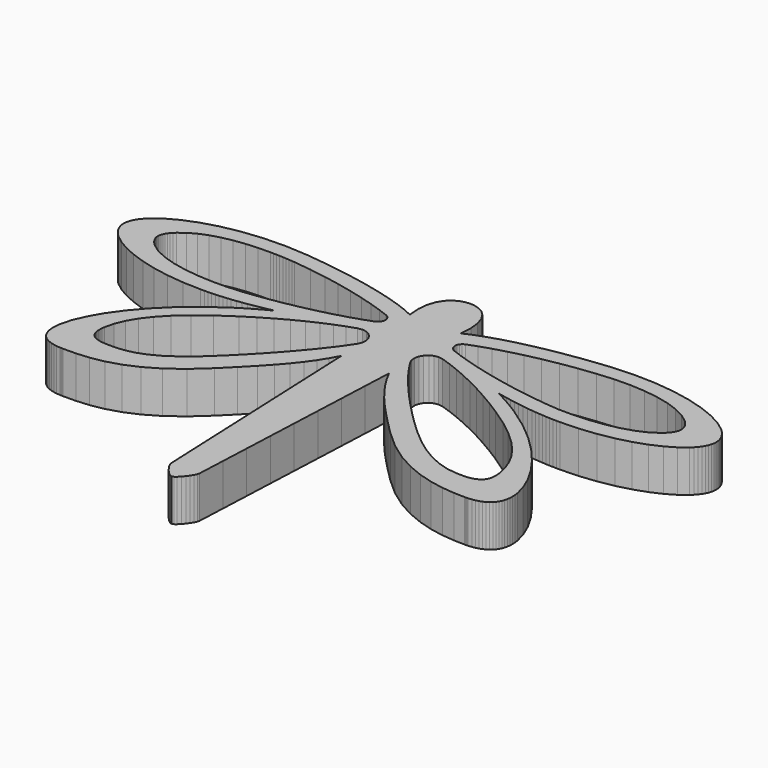
from build123d import *

# Parameters (mm, degrees)
F1_DEPTH = 12
F2_SCALE = 0.4


with BuildPart() as f1:
    # F0 (on Top) → F1 (new body)
    with BuildSketch(Plane.XY):
        Polygon((-36.167496, 57.580935), (-35.154684, 57.574074), (-29.947674, 57.758049), (-25.071256, 58.280875), (-20.561392, 59.098903), (-16.454049, 60.168484), (-12.78519, 61.445968), (-9.590781, 62.887706), (-6.906785, 64.45005), (-4.769168, 66.08935), (-4.051872, 66.780061), (-3.425904, 67.481425), (-2.892593, 68.190983), (-2.453268, 68.906277), (-2.109257, 69.624848), (-1.86189, 70.344239), (-1.712495, 71.061992), (-1.662402, 71.775647), (-1.711336, 72.481869), (-1.857224, 73.191524), (-2.098693, 73.902197), (-2.43437, 74.611475), (-2.86288, 75.316944), (-3.382852, 76.016189), (-3.992912, 76.706798), (-4.691687, 77.386356), (-7.251789, 79.305259), (-10.583291, 81.110578), (-14.628106, 82.730183), (-19.328143, 84.091946), (-24.625317, 85.123739), (-30.461537, 85.753432), (-36.778718, 85.908898), (-43.518769, 85.518008), (-50.297735, 84.724774), (-56.444862, 83.781502), (-61.948096, 82.729614), (-66.795383, 81.610528), (-70.974669, 80.465665), (-74.473898, 79.336444), (-77.281017, 78.264284), (-79.383971, 77.290606), (-79.193794, 80.736457), (-79.504338, 83.530015), (-80.223085, 85.730719), (-81.257519, 87.398007), (-82.515122, 88.591319), (-83.903376, 89.370094), (-85.329765, 89.79377), (-86.701772, 89.921787), (-88.088311, 89.787315), (-89.527849, 89.347978), (-90.926484, 88.549896), (-92.190314, 87.339189), (-93.225438, 85.661976), (-93.937954, 83.464376), (-94.233961, 80.692511), (-94.019558, 77.292498), (-96.123056, 78.266175), (-98.930453, 79.338335), (-102.429785, 80.467556), (-106.609084, 81.612419), (-111.456386, 82.731505), (-116.959724, 83.783394), (-123.107132, 84.726666), (-129.886645, 85.519901), (-136.6229, 85.91079), (-142.938298, 85.755324), (-148.774287, 85.12563), (-154.072313, 84.093838), (-158.773824, 82.732075), (-162.820266, 81.11247), (-166.153086, 79.307152), (-168.713731, 77.388248), (-169.41243, 76.708686), (-170.02228, 76.01805), (-170.541952, 75.318734), (-170.970117, 74.613128), (-171.305447, 73.903625), (-171.546614, 73.192616), (-171.692288, 72.482493), (-171.741142, 71.775647), (-171.691048, 71.061996), (-171.541654, 70.344269), (-171.294287, 69.624949), (-170.950276, 68.906514), (-170.51095, 68.191445), (-169.977638, 67.482223), (-169.351668, 66.781328), (-168.63437, 66.091239), (-166.496209, 64.451939), (-163.811959, 62.889595), (-160.617516, 61.447857), (-156.948779, 60.170372), (-152.841647, 59.100792), (-148.332018, 58.282764), (-143.455789, 57.759938), (-138.248859, 57.575963), (-137.23596, 57.582746), (-136.212874, 57.603305), (-135.179867, 57.637948), (-134.137205, 57.686986), (-133.085153, 57.750729), (-132.023977, 57.829487), (-130.953943, 57.923569), (-129.875316, 58.033286), (-128.446042, 58.200316), (-127.028683, 58.388739), (-125.623813, 58.59727), (-124.23201, 58.824625), (-122.853848, 59.06952), (-121.489904, 59.330669), (-120.140754, 59.606788), (-118.806973, 59.896594), (-119.839791, 59.361052), (-120.874049, 58.810097), (-121.908883, 58.243374), (-122.943428, 57.660529), (-123.976823, 57.061208), (-125.008202, 56.445057), (-126.036703, 55.81172), (-127.061461, 55.160845), (-132.578626, 51.272999), (-137.425398, 47.219968), (-141.601067, 43.094521), (-145.104925, 38.989426), (-147.936264, 34.997452), (-150.094375, 31.211367), (-151.578548, 27.723938), (-152.388076, 24.627936), (-152.512612, 23.660986), (-152.560546, 22.740564), (-152.532343, 21.869439), (-152.428469, 21.050378), (-152.249388, 20.28615), (-151.995566, 19.579523), (-151.667467, 18.933264), (-151.265557, 18.350143), (-150.782327, 17.82281), (-150.218775, 17.35412), (-149.577492, 16.945134), (-148.861068, 16.596915), (-148.072096, 16.310527), (-147.213165, 16.087033), (-146.286866, 15.927495), (-145.295792, 15.832976), (-145.177624, 15.827116), (-145.058413, 15.822197), (-144.938181, 15.81808), (-144.816954, 15.814624), (-144.694755, 15.811691), (-144.571608, 15.809141), (-144.447536, 15.806834), (-144.322565, 15.804631), (-140.720583, 15.843399), (-137.022452, 16.154715), (-133.212658, 16.844), (-129.275692, 18.016674), (-125.196042, 19.778158), (-120.958196, 22.233871), (-116.546643, 25.489236), (-111.945872, 29.649672), (-108.3023, 33.289337), (-105.168144, 36.515352), (-102.479424, 39.415255), (-100.172163, 42.076586), (-98.182382, 44.586883), (-96.446104, 47.033685), (-94.899349, 49.504532), (-93.478139, 52.086962), (-93.135503, 44.023245), (-92.792868, 35.959527), (-92.450232, 27.89581), (-92.107596, 19.832092), (-91.764961, 11.768374), (-91.422325, 3.704657), (-91.079689, -4.359061), (-90.737054, -12.422778), (-90.61087, -12.946862), (-90.267704, -13.654844), (-89.760629, -14.468506), (-89.142723, -15.309629), (-88.467062, -16.099995), (-87.786719, -16.761383), (-87.154773, -17.215577), (-86.624298, -17.384357), (-86.143725, -17.215578), (-85.54928, -16.761385), (-84.895808, -16.099998), (-84.238159, -15.309635), (-83.631178, -14.468513), (-83.129714, -13.65485), (-82.788615, -12.946866), (-82.662726, -12.422778), (-82.308736, -4.358061), (-81.954746, 3.706657), (-81.600756, 11.771374), (-81.246766, 19.836092), (-80.892776, 27.900809), (-80.538786, 35.965527), (-80.184796, 44.030244), (-79.830805, 52.094962), (-78.413499, 49.512269), (-76.877034, 47.040728), (-75.155303, 44.592945), (-73.182199, 42.081524), (-70.891615, 39.41907), (-68.217443, 36.518187), (-65.093577, 33.29148), (-61.453908, 29.651553), (-56.793976, 25.497939), (-52.238748, 22.25914), (-47.823424, 19.82389), (-43.583198, 18.080921), (-39.553267, 16.918966), (-35.768828, 16.226758), (-32.265077, 15.893029), (-29.077212, 15.806512), (-28.951678, 15.806878), (-28.827319, 15.808019), (-28.704068, 15.810001), (-28.581858, 15.812891), (-28.460622, 15.816756), (-28.340294, 15.821661), (-28.220808, 15.827673), (-28.102096, 15.834858), (-27.11094, 15.928751), (-26.184427, 16.08782), (-25.325193, 16.310978), (-24.535872, 16.597142), (-23.8191, 16.945224), (-23.177514, 17.354141), (-22.613747, 17.822807), (-22.130436, 18.350136), (-21.729147, 18.933254), (-21.401492, 19.579486), (-21.147936, 20.286043), (-20.968943, 21.050135), (-20.864979, 21.868971), (-20.836509, 22.73976), (-20.883999, 23.659713), (-21.007912, 24.62604), (-21.817525, 27.721503), (-23.301937, 31.208678), (-25.46042, 34.994732), (-28.292241, 38.986828), (-31.796671, 43.092133), (-35.972978, 47.217812), (-40.820433, 51.27103), (-46.338305, 55.158952), (-47.363609, 55.809906), (-48.392391, 56.44343), (-49.423874, 57.059814), (-50.457284, 57.659345), (-51.491846, 58.242312), (-52.526784, 58.809001), (-53.561324, 59.359702), (-54.594689, 59.894701), (-53.260825, 59.604896), (-51.911459, 59.328776), (-50.547212, 59.067627), (-49.168703, 58.822733), (-47.776552, 58.595378), (-46.37138, 58.386847), (-44.953806, 58.198424), (-43.52445, 58.031394), (-42.446527, 57.92222), (-41.377175, 57.828393), (-40.316636, 57.74967), (-39.265155, 57.685806), (-38.222976, 57.636557), (-37.190341, 57.601682), align=None)
        Polygon((-136.029736, 23.606965), (-138.717936, 23.666077), (-139.449062, 23.732148), (-140.127148, 23.839954), (-140.750328, 23.988782), (-141.316736, 24.177919), (-141.824505, 24.406652), (-142.271768, 24.674267), (-142.656659, 24.980052), (-142.977312, 25.323293), (-143.236483, 25.707776), (-143.446033, 26.144521), (-143.605669, 26.631601), (-143.715096, 27.167084), (-143.774022, 27.749043), (-143.782152, 28.375548), (-143.739193, 29.044669), (-143.644851, 29.754477), (-142.99925, 32.406858), (-141.902395, 35.084195), (-140.309548, 37.805462), (-138.17597, 40.589633), (-135.456925, 43.45568), (-132.107673, 46.422577), (-128.083477, 49.509296), (-123.339599, 52.734812), (-119.907178, 54.88232), (-116.577616, 56.836613), (-113.355543, 58.602743), (-110.245588, 60.185763), (-107.252384, 61.590727), (-104.380559, 62.822687), (-101.634746, 63.886696), (-99.019573, 64.787807), (-97.70403, 64.99464), (-96.49192, 64.791275), (-95.436955, 64.246649), (-94.592849, 63.429699), (-94.013314, 62.409363), (-93.752062, 61.254578), (-93.862806, 60.034281), (-94.399258, 58.817408), (-96.119769, 56.283756), (-98.113279, 53.592765), (-100.346513, 50.776828), (-102.786196, 47.868343), (-105.399054, 44.899703), (-108.151811, 41.903305), (-111.011191, 38.911544), (-113.94392, 35.956815), (-117.986272, 32.170748), (-121.60501, 29.214394), (-124.876856, 26.994285), (-127.87853, 25.416955), (-130.686754, 24.388937), (-133.378249, 23.816762), align=None, mode=Mode.SUBTRACT)
        Polygon((-125.119168, 63.13287), (-130.047885, 62.51297), (-134.431515, 62.20902), (-138.811766, 62.174192), (-143.092625, 62.412615), (-147.178083, 62.928419), (-150.97213, 63.725732), (-154.378753, 64.808683), (-157.301943, 66.181403), (-159.645689, 67.848019), (-160.174747, 68.352734), (-160.63638, 68.857052), (-161.029627, 69.359241), (-161.353528, 69.857568), (-161.607123, 70.350301), (-161.789451, 70.835707), (-161.899552, 71.312054), (-161.936465, 71.777608), (-161.900561, 72.237411), (-161.793514, 72.707234), (-161.616329, 73.185407), (-161.370006, 73.670259), (-161.055547, 74.160122), (-160.673955, 74.653325), (-160.226232, 75.148197), (-159.713379, 75.64307), (-157.867981, 77.056335), (-155.699556, 78.263414), (-153.23176, 79.26828), (-150.488248, 80.074907), (-147.492676, 80.68727), (-144.268701, 81.109342), (-140.839978, 81.345098), (-137.230163, 81.398512), (-136.354093, 81.386546), (-135.470824, 81.367202), (-134.580696, 81.339484), (-133.684045, 81.302397), (-132.78121, 81.254947), (-131.872528, 81.196138), (-130.958338, 81.124976), (-130.038977, 81.040466), (-125.108681, 80.458364), (-120.356212, 79.725638), (-115.824622, 78.871253), (-111.556967, 77.924173), (-107.596301, 76.91336), (-103.985679, 75.86778), (-100.768154, 74.816397), (-97.986782, 73.788172), (-97.390639, 73.440065), (-96.965362, 72.963045), (-96.710856, 72.40023), (-96.627022, 71.79474), (-96.713765, 71.189694), (-96.970987, 70.628211), (-97.398592, 70.15341), (-97.996482, 69.80841), (-100.779592, 68.794342), (-103.998227, 67.755201), (-107.609385, 66.718115), (-111.570061, 65.710212), (-115.837252, 64.758618), (-120.367956, 63.890462), align=None, mode=Mode.SUBTRACT)
        Polygon((-30.671952, 25.755612), (-30.933677, 25.367429), (-31.25681, 25.02141), (-31.644877, 24.713046), (-32.096054, 24.443056), (-32.608521, 24.212162), (-33.180457, 24.021083), (-33.810041, 23.87054), (-34.49545, 23.761253), (-35.234864, 23.693943), (-37.974542, 23.706902), (-40.758695, 24.110328), (-43.63866, 24.959023), (-46.665774, 26.307789), (-49.891372, 28.21143), (-53.366792, 30.724747), (-57.143369, 33.902543), (-61.272441, 37.799621), (-64.188373, 40.732679), (-66.934777, 43.598697), (-69.503547, 46.393221), (-71.886578, 49.111796), (-74.075768, 51.749969), (-76.06301, 54.303284), (-77.840201, 56.767287), (-79.399237, 59.137525), (-79.910806, 60.344235), (-80.005685, 61.552774), (-79.736726, 62.695471), (-79.156781, 63.704657), (-78.318704, 64.512662), (-77.275344, 65.051817), (-76.079556, 65.254452), (-74.78419, 65.052897), (-72.09308, 64.126457), (-69.250182, 63.022921), (-66.266801, 61.740744), (-63.154246, 60.278386), (-59.923824, 58.634301), (-56.586844, 56.806948), (-53.154614, 54.794783), (-49.63844, 52.596263), (-44.896279, 49.358419), (-40.959872, 46.292395), (-37.757677, 43.368507), (-35.218154, 40.557068), (-33.269762, 37.828395), (-31.840961, 35.152802), (-30.86021, 32.500604), (-30.255968, 29.842118), (-30.161892, 29.124822), (-30.119407, 28.448888), (-30.128259, 27.816201), (-30.188193, 27.228645), (-30.298956, 26.688105), (-30.460293, 26.196466), align=None, mode=Mode.SUBTRACT)
        Polygon((-48.272919, 80.429069), (-43.365038, 81.007928), (-38.627533, 81.406198), (-34.073261, 81.474908), (-29.759416, 81.225903), (-25.743192, 80.67103), (-22.081783, 79.822138), (-18.832384, 78.691072), (-16.052189, 77.289679), (-13.798392, 75.629807), (-13.286861, 75.136702), (-12.840496, 74.643596), (-12.460236, 74.152155), (-12.147014, 73.664042), (-11.901768, 73.18092), (-11.725434, 72.704455), (-11.618947, 72.23631), (-11.583243, 71.778149), (-11.620098, 71.314257), (-11.729982, 70.839612), (-11.911878, 70.35594), (-12.164764, 69.864966), (-12.487624, 69.368418), (-12.879436, 68.868023), (-13.339183, 68.365505), (-13.865844, 67.862593), (-16.25098, 66.197695), (-19.284575, 64.818599), (-22.828312, 63.725317), (-26.743871, 62.917863), (-30.892934, 62.396251), (-35.137182, 62.160493), (-39.338295, 62.210603), (-43.357956, 62.546593), (-48.261158, 63.163188), (-52.98909, 63.916061), (-57.498829, 64.778582), (-61.747455, 65.724125), (-65.692045, 66.726059), (-69.289679, 67.757755), (-72.497435, 68.792587), (-75.272391, 69.803923), (-75.87176, 70.149977), (-76.300449, 70.626118), (-76.558355, 71.189136), (-76.645375, 71.795823), (-76.561407, 72.40297), (-76.306349, 72.967368), (-75.880096, 73.445807), (-75.282547, 73.79508), (-72.510459, 74.820538), (-69.30494, 75.867437), (-65.708762, 76.907362), (-61.764698, 77.911902), (-57.515522, 78.852642), (-53.004004, 79.701169), align=None, mode=Mode.SUBTRACT)
    extrude(amount=F1_DEPTH)


with BuildPart() as f1_1:
    # F2: moved
    add(f1.part.scale(F2_SCALE).moved(Location((-52.0210632, 53.9530722, 7.2))))


solid = f1_1.part
